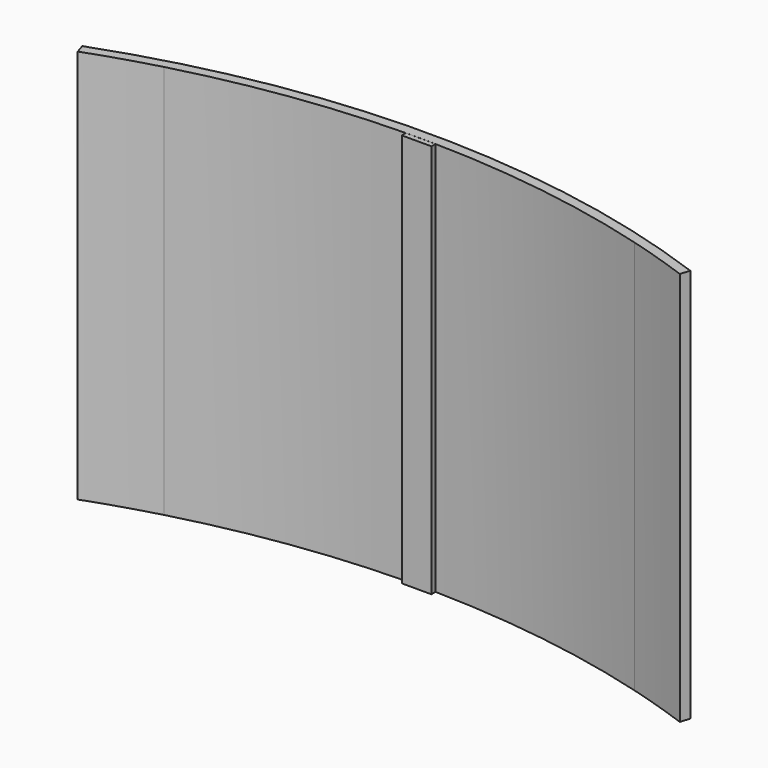
from build123d import *

# Parameters (mm, degrees)
F1_DEPTH = 40
F0_W     = 3
F0_H     = 0.5209621557


with BuildPart() as f1:
    # F0 (on Top) → F1 (new body)
    with BuildSketch(Plane.XY):
        with BuildLine():
            Line((-0.3004440295, 0.953799447), (0, 0))
            ThreePointArc((0, 0), (3.4754613655, 1.1730797017), (6.9958097623, 2.2036595654))
            ThreePointArc((6.9958097623, 2.2036595654), (17.9177233195, 4.4458890959), (29.033, 5.3213394566))
            ThreePointArc((29.033, 5.3213394566), (30.533, 5.3338322034), (32.033, 5.3213394566))
            ThreePointArc((32.033, 5.3213394566), (43.5846628265, 4.3830620572), (54.9201726645, 1.9690415004))
            ThreePointArc((54.9201726645, 1.9690415004), (58.0107295729, 1.0395893258), (61.066, 0))
            Line((61.066, 0), (61.371109785, 0.9523171841))
            ThreePointArc((61.371109785, 0.9523171841), (30.5354637118, 6.3965848887), (-0.3004440295, 0.953799447))
        make_face()
    extrude(amount=F1_DEPTH)


with BuildPart() as f1b:
    # F0 (on Top) → F1, piece 2 (new body)
    with BuildSketch(Plane.XY):
        with Locations((30.533, 5.0608583788)):
            Rectangle(F0_W, F0_H)
    extrude(amount=F1_DEPTH)


solid = Compound([f1.part, f1b.part])
